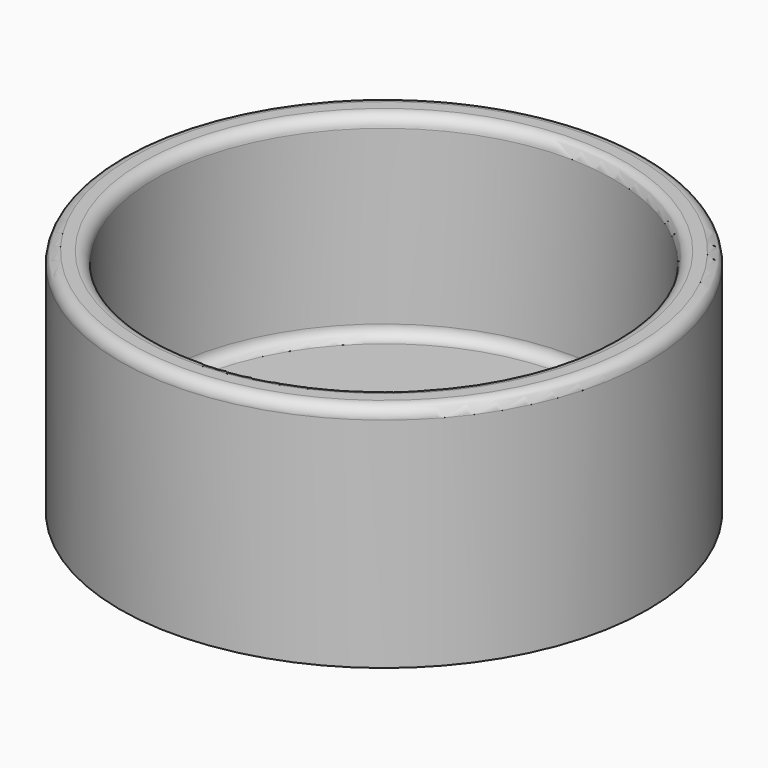
from build123d import *

# Parameters (mm, degrees)
F0_R     = 23
F0_R_2   = 20
F1_DEPTH = 20
F2_R     = 23
F3_DEPTH = 3
F4_R     = 1
F5_R     = 1
F6_R     = 1


with BuildPart() as f1:
    # F0 (on Top) → F1 (new body)
    with BuildSketch(Plane.XY):
        Circle(F0_R)
        Circle(F0_R_2, mode=Mode.SUBTRACT)
    extrude(amount=F1_DEPTH)

    # F2 (on Top) → F3 (join)
    with BuildSketch(Plane.XY):
        Circle(F2_R)
    extrude(amount=F3_DEPTH)

    # F4
    f4_edges = [f1.edges().sort_by_distance(p)[0] for p in [
        (-20, 0, 20),
    ]]
    fillet(f4_edges, radius=F4_R)

    # F5
    f5_edges = [f1.edges().sort_by_distance(p)[0] for p in [
        (-23, 0, 20),
    ]]
    fillet(f5_edges, radius=F5_R)

    # F6
    f6_edges = [f1.edges().sort_by_distance(p)[0] for p in [
        (-20, 0, 3),
    ]]
    fillet(f6_edges, radius=F6_R)


solid = f1.part
